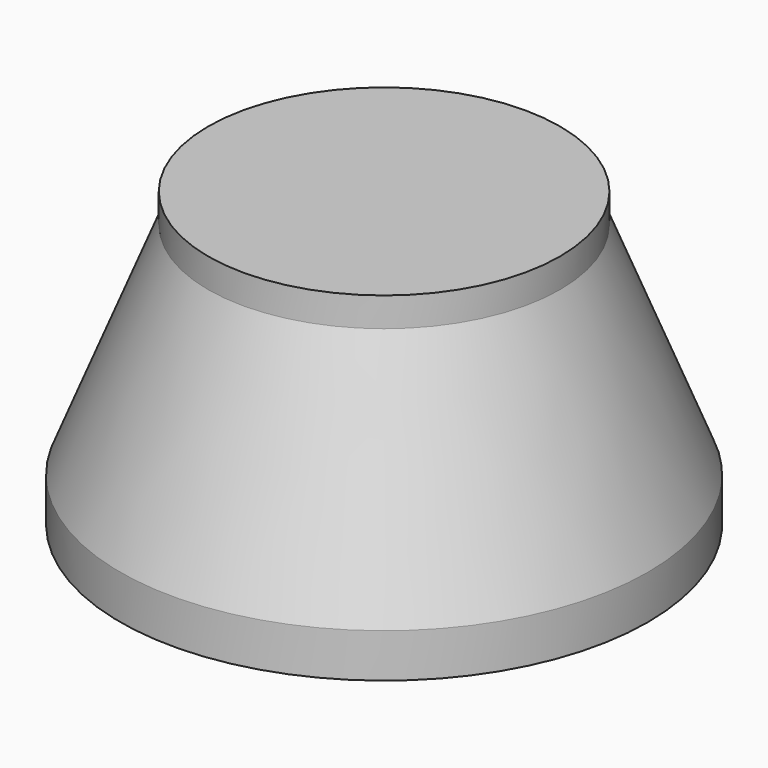
from build123d import *


with BuildPart() as part:
    # Sketch → Revolution (revolve)
    with BuildSketch(Plane.XZ):
        Polygon((0, 50), (0, -50), (90, -50), (90, -35), (60, 40), (60, 50), align=None)
    revolve(axis=Axis((0, 0, 0), (0, 0, 1)))


solid = part.part
